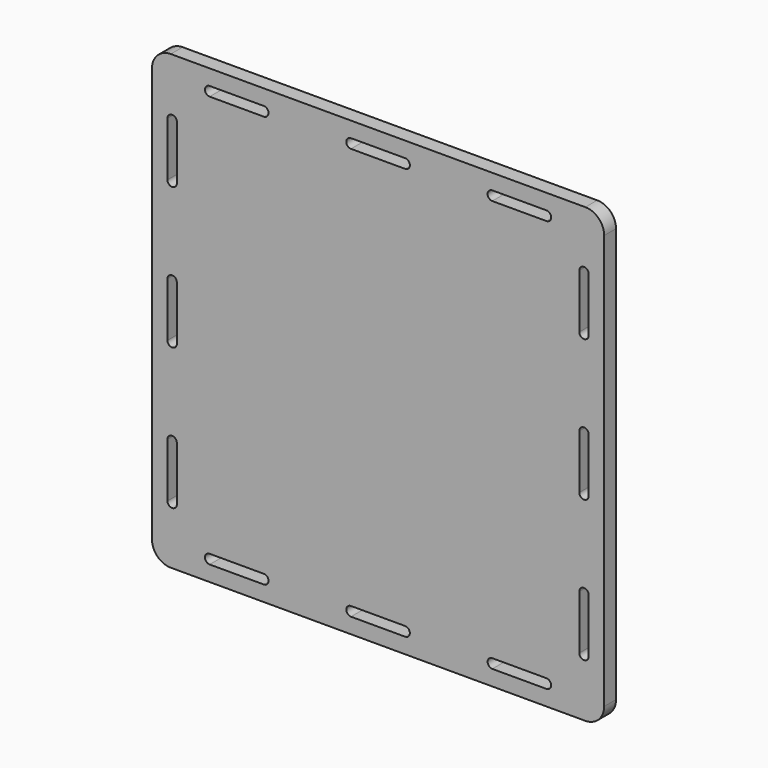
from build123d import *

# Parameters (mm, degrees)
F1_DEPTH = 20


with BuildPart() as f1:
    # F0 (on Front) → F1 (new body)
    with BuildSketch(Plane.XZ):
        with BuildLine():
            Line((-279.4, -304.8), (279.4, -304.8))
            ThreePointArc((279.4, -304.8), (297.360512, -297.360512), (304.8, -279.4))
            Line((304.8, -279.4), (304.8, 279.4))
            ThreePointArc((304.8, 279.4), (297.360512, 297.360512), (279.4, 304.8))
            Line((279.4, 304.8), (-279.4, 304.8))
            ThreePointArc((-279.4, 304.8), (-297.360512, 297.360512), (-304.8, 279.4))
            Line((-304.8, 279.4), (-304.8, -279.4))
            ThreePointArc((-304.8, -279.4), (-297.360512, -297.360512), (-279.4, -304.8))
        make_face()
        with BuildLine():
            Line((-226.9998, -271.235856), (-154.0002, -271.235856))
            ThreePointArc((-154.0002, -271.235856), (-147.6502, -277.585856), (-154.0002, -283.935856))
            Line((-154.0002, -283.935856), (-226.9998, -283.935856))
            ThreePointArc((-226.9998, -283.935856), (-233.3498, -277.585856), (-226.9998, -271.235856))
        make_face(mode=Mode.SUBTRACT)
        with BuildLine():
            Line((-271.235856, -154.0002), (-271.235856, -226.9998))
            ThreePointArc((-271.235856, -226.9998), (-277.585856, -233.3498), (-283.935856, -226.9998))
            Line((-283.935856, -226.9998), (-283.935856, -154.0002))
            ThreePointArc((-283.935856, -154.0002), (-277.585856, -147.6502), (-271.235856, -154.0002))
        make_face(mode=Mode.SUBTRACT)
        with BuildLine():
            Line((-36.4998, -271.235856), (36.4998, -271.235856))
            ThreePointArc((36.4998, -271.235856), (42.8498, -277.585856), (36.4998, -283.935856))
            Line((36.4998, -283.935856), (-36.4998, -283.935856))
            ThreePointArc((-36.4998, -283.935856), (-42.8498, -277.585856), (-36.4998, -271.235856))
        make_face(mode=Mode.SUBTRACT)
        with BuildLine():
            Line((154.0002, -271.235856), (226.9998, -271.235856))
            ThreePointArc((226.9998, -271.235856), (233.3498, -277.585856), (226.9998, -283.935856))
            Line((226.9998, -283.935856), (154.0002, -283.935856))
            ThreePointArc((154.0002, -283.935856), (147.6502, -277.585856), (154.0002, -271.235856))
        make_face(mode=Mode.SUBTRACT)
        with BuildLine():
            Line((271.235856, -226.9998), (271.235856, -154.0002))
            ThreePointArc((271.235856, -154.0002), (277.585856, -147.6502), (283.935856, -154.0002))
            Line((283.935856, -154.0002), (283.935856, -226.9998))
            ThreePointArc((283.935856, -226.9998), (277.585856, -233.3498), (271.235856, -226.9998))
        make_face(mode=Mode.SUBTRACT)
        with BuildLine():
            Line((-271.235856, 36.4998), (-271.235856, -36.4998))
            ThreePointArc((-271.235856, -36.4998), (-277.585856, -42.8498), (-283.935856, -36.4998))
            Line((-283.935856, -36.4998), (-283.935856, 36.4998))
            ThreePointArc((-283.935856, 36.4998), (-277.585856, 42.8498), (-271.235856, 36.4998))
        make_face(mode=Mode.SUBTRACT)
        with BuildLine():
            Line((-271.235856, 226.9998), (-271.235856, 154.0002))
            ThreePointArc((-271.235856, 154.0002), (-277.585856, 147.6502), (-283.935856, 154.0002))
            Line((-283.935856, 154.0002), (-283.935856, 226.9998))
            ThreePointArc((-283.935856, 226.9998), (-277.585856, 233.3498), (-271.235856, 226.9998))
        make_face(mode=Mode.SUBTRACT)
        with BuildLine():
            Line((-154.0002, 271.23583), (-226.9998, 271.23583))
            ThreePointArc((-226.9998, 271.23583), (-233.3498, 277.58583), (-226.9998, 283.93583))
            Line((-226.9998, 283.93583), (-154.0002, 283.93583))
            ThreePointArc((-154.0002, 283.93583), (-147.6502, 277.58583), (-154.0002, 271.23583))
        make_face(mode=Mode.SUBTRACT)
        with BuildLine():
            Line((271.235856, -36.4998), (271.235856, 36.4998))
            ThreePointArc((271.235856, 36.4998), (277.585856, 42.8498), (283.935856, 36.4998))
            Line((283.935856, 36.4998), (283.935856, -36.4998))
            ThreePointArc((283.935856, -36.4998), (277.585856, -42.8498), (271.235856, -36.4998))
        make_face(mode=Mode.SUBTRACT)
        with BuildLine():
            Line((36.4998, 271.23583), (-36.4998, 271.23583))
            ThreePointArc((-36.4998, 271.23583), (-42.8498, 277.58583), (-36.4998, 283.93583))
            Line((-36.4998, 283.93583), (36.4998, 283.93583))
            ThreePointArc((36.4998, 283.93583), (42.8498, 277.58583), (36.4998, 271.23583))
        make_face(mode=Mode.SUBTRACT)
        with BuildLine():
            Line((271.235856, 154.0002), (271.235856, 226.9998))
            ThreePointArc((271.235856, 226.9998), (277.585856, 233.3498), (283.935856, 226.9998))
            Line((283.935856, 226.9998), (283.935856, 154.0002))
            ThreePointArc((283.935856, 154.0002), (277.585856, 147.6502), (271.235856, 154.0002))
        make_face(mode=Mode.SUBTRACT)
        with BuildLine():
            Line((226.9998, 271.23583), (154.0002, 271.23583))
            ThreePointArc((154.0002, 271.23583), (147.6502, 277.58583), (154.0002, 283.93583))
            Line((154.0002, 283.93583), (226.9998, 283.93583))
            ThreePointArc((226.9998, 283.93583), (233.3498, 277.58583), (226.9998, 271.23583))
        make_face(mode=Mode.SUBTRACT)
    extrude(amount=F1_DEPTH)


solid = f1.part
